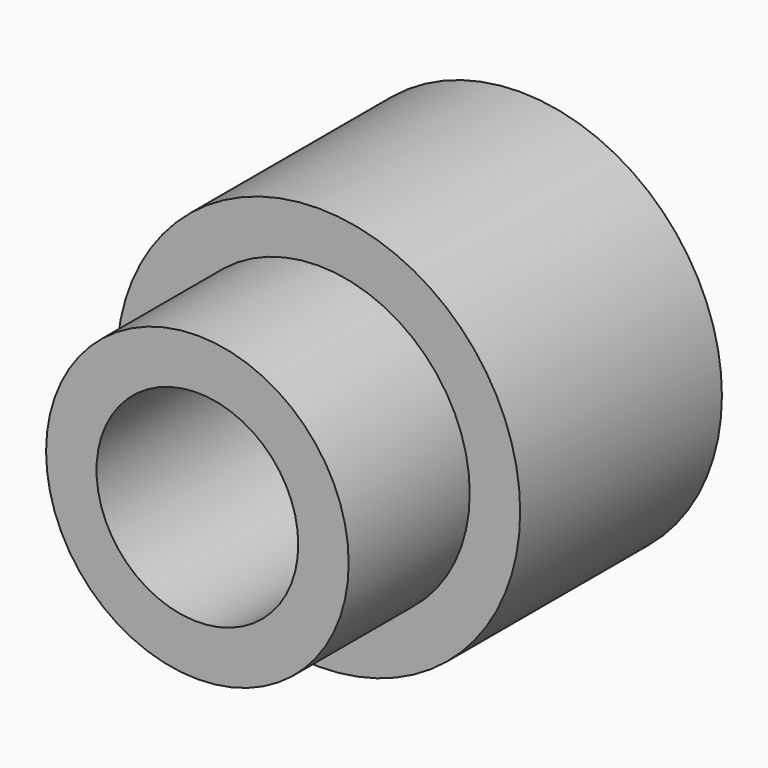
from build123d import *

# Parameters (mm, degrees)
F0_R     = 3
F0_R_2   = 2
F1_DEPTH = 5
F0_R_3   = 4
F2_DEPTH = 5
F3_DEPTH = 3


with BuildPart() as f1:
    # F0 (on Front) → F1 (new body)
    with BuildSketch(Plane.XZ):
        Circle(F0_R)
        Circle(F0_R_2, mode=Mode.SUBTRACT)
    extrude(amount=-F1_DEPTH)

    # F0 (on Front) → F2 (join)
    with BuildSketch(Plane.XZ):
        Circle(F0_R_3)
        Circle(F0_R, mode=Mode.SUBTRACT)
    extrude(amount=-F2_DEPTH)

    # F0 (on Front) → F3 (join)
    with BuildSketch(Plane.XZ):
        Circle(F0_R)
        Circle(F0_R_2, mode=Mode.SUBTRACT)
    extrude(amount=F3_DEPTH)


solid = f1.part
